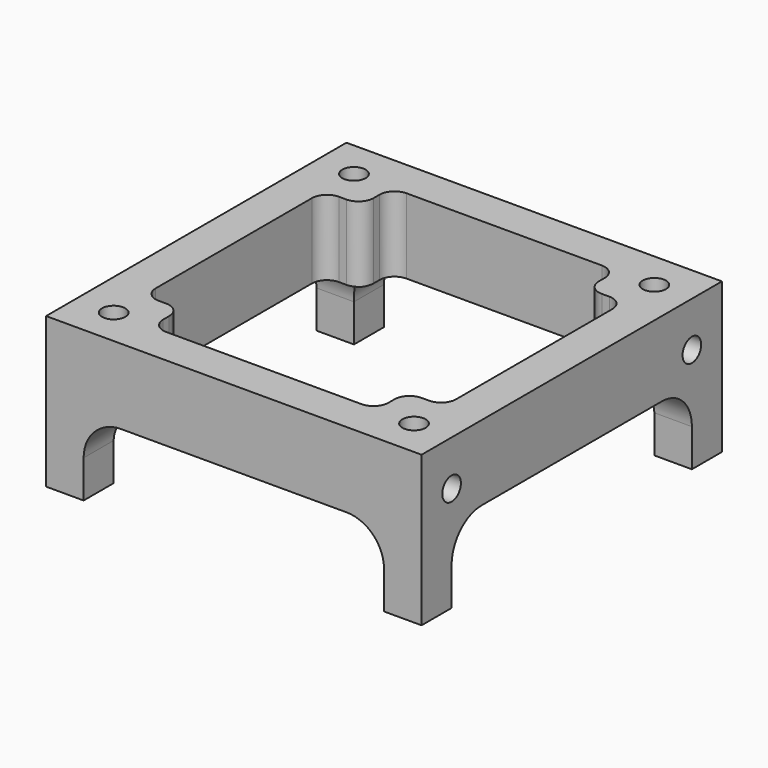
from build123d import *

# Parameters (mm, degrees)
SKETCH028_W             = 50
SKETCH028_H             = 50
PAD005_DEPTH            = 20
POCKET024_DEPTH         = 20.001
POCKET025_DEPTH         = 50.001
POCKET026_DEPTH         = 50.001
SKETCH032_R             = 1.55
POCKET027_DEPTH         = 5
SKETCH033_R             = 1.55
POCKET028_DEPTH         = 3
BODY006_PLACEMENT_ANGLE = 90


with BuildPart() as part:
    # Sketch028 → Pad005 (new body)
    with BuildSketch(Plane.XY):
        Rectangle(SKETCH028_W, SKETCH028_H)
    extrude(amount=PAD005_DEPTH)

    # Sketch029 (on Face6 of Pad005) → Pocket024 (cut, through all)
    with BuildSketch(Plane.XY.offset(20)):
        with BuildLine():
            Line((-18, 15), (-17, 15))
            ThreePointArc((-17, 15), (-15.585786, 15.585786), (-15, 17))
            Line((-15, 17), (-15, 18))
            ThreePointArc((-13, 20), (-14.414214, 19.414214), (-15, 18))
            Line((-13, 20), (13, 20))
            ThreePointArc((15, 18), (14.414214, 19.414214), (13, 20))
            Line((15, 18), (15, 17))
            ThreePointArc((15, 17), (15.585786, 15.585786), (17, 15))
            Line((17, 15), (18, 15))
            ThreePointArc((20, 13), (19.414214, 14.414214), (18, 15))
            Line((20, 13), (20, -13))
            ThreePointArc((18, -15), (19.414214, -14.414214), (20, -13))
            Line((18, -15), (17, -15))
            ThreePointArc((17, -15), (15.585786, -15.585786), (15, -17))
            Line((15, -17), (15, -18))
            ThreePointArc((13, -20), (14.414214, -19.414214), (15, -18))
            Line((13, -20), (-13, -20))
            ThreePointArc((-15, -18), (-14.414214, -19.414214), (-13, -20))
            Line((-15, -18), (-15, -17))
            ThreePointArc((-15, -17), (-15.585786, -15.585786), (-17, -15))
            Line((-17, -15), (-18, -15))
            ThreePointArc((-20, -13), (-19.414214, -14.414214), (-18, -15))
            Line((-20, -13), (-20, 13))
            ThreePointArc((-18, 15), (-19.414214, 14.414214), (-20, 13))
        make_face()
    extrude(amount=-POCKET024_DEPTH, mode=Mode.SUBTRACT)

    # Sketch030 (on Face3 of Pocket024) → Pocket025 (cut, through all)
    with BuildSketch(Plane.YZ.offset(25)):
        with BuildLine():
            Line((-15, 10), (15, 10))
            ThreePointArc((20, 5), (18.535534, 8.535534), (15, 10))
            Line((20, 5), (20, 0))
            Line((20, 0), (-20, 0))
            Line((-20, 0), (-20, 5))
            ThreePointArc((-15, 10), (-18.535534, 8.535534), (-20, 5))
        make_face()
    extrude(amount=-POCKET025_DEPTH, mode=Mode.SUBTRACT)

    # Sketch031 (on Face6 of Pocket024) → Pocket026 (cut, through all)
    with BuildSketch(Plane.XZ.offset(25)):
        with BuildLine():
            Line((-15, 10), (15, 10))
            ThreePointArc((20, 5), (18.535534, 8.535534), (15, 10))
            Line((20, 5), (20, 0))
            Line((20, 0), (-20, 0))
            Line((-20, 0), (-20, 5))
            ThreePointArc((-15, 10), (-18.535534, 8.535534), (-20, 5))
        make_face()
    extrude(amount=-POCKET026_DEPTH, mode=Mode.SUBTRACT)

    # Sketch032 → Pocket027 (cut)
    with BuildSketch(Plane.XY.offset(20)):
        with Locations((-20, 20)):
            Circle(SKETCH032_R)
        with Locations((20, 20)):
            Circle(SKETCH032_R)
        with Locations((20, -20)):
            Circle(SKETCH032_R)
        with Locations((-20, -20)):
            Circle(SKETCH032_R)
    extrude(amount=-POCKET027_DEPTH, mode=Mode.SUBTRACT)

    # Sketch033 (on Face27 of Pocket027) → Pocket028 (cut)
    with BuildSketch(Plane.XZ.offset(25)):
        with Locations((-20, 14)):
            Circle(SKETCH033_R)
        with Locations((20, 14)):
            Circle(SKETCH033_R)
    extrude(amount=-POCKET028_DEPTH, mode=Mode.SUBTRACT)


with BuildPart() as part_1:
    # Body006 placement: moved
    add(part.part.moved(Location((145, 85, 0))).rotate(Axis((145, 85, 0), (0, 0, 1)), BODY006_PLACEMENT_ANGLE))


solid = part_1.part
